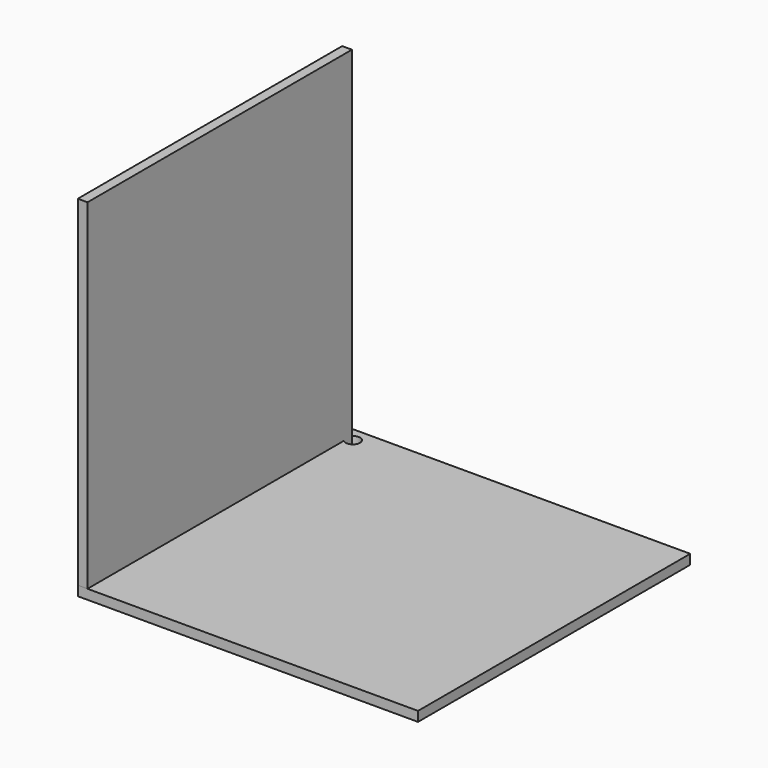
from build123d import *

# Parameters (mm, degrees)
F1_W     = 700
F1_H     = 700
F1_R     = 14.6421356237
F2_DEPTH = 20
F3_W     = 10
F3_H     = 20
F4_DEPTH = 20


with BuildPart() as f2:
    # F1 (on Top) → F2 (new body)
    with BuildSketch(Plane.XY):
        with Locations((350, 350)):
            Rectangle(F1_W, F1_H)
        with Locations((30, 670)):
            Circle(F1_R, mode=Mode.SUBTRACT)
    extrude(amount=-F2_DEPTH)


with BuildPart() as f4:
    # F3 (on Right) → F4 (new body)
    with BuildSketch(Plane.YZ):
        with Locations((675, -10)):
            Rectangle(F3_W, F3_H)
        Polygon((670, 0), (680, 0), (680, 700), (0, 700), (0, 0), (660, 0), align=None)
        with Locations((665, -10)):
            Rectangle(F3_W, F3_H)
    extrude(amount=F4_DEPTH)


solid = Compound([f2.part, f4.part])
